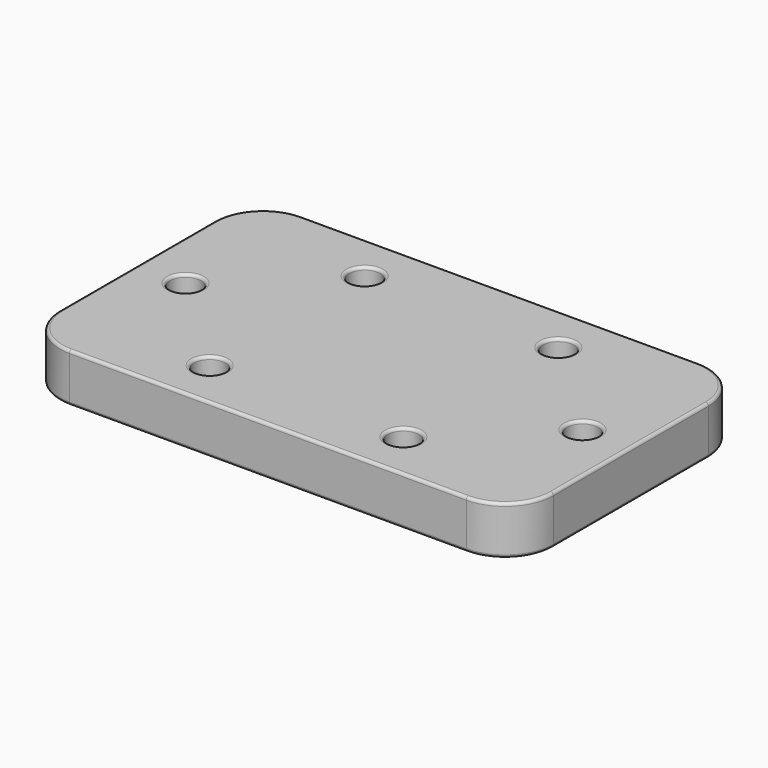
from build123d import *

# Parameters (mm, degrees)
F0_W     = 51
F0_H     = 30
F0_R     = 1.6
F1_DEPTH = 5
F2_R     = 5
F3_R     = 0.3


with BuildPart() as f1:
    # F0 (on Top) → F1 (new body)
    with BuildSketch(Plane.XY):
        with Locations((20.5, 0)):
            Rectangle(F0_W, F0_H)
        with Locations((10.5, -10)):
            Circle(F0_R, mode=Mode.SUBTRACT)
        with Locations((30.5, -10)):
            Circle(F0_R, mode=Mode.SUBTRACT)
        Circle(F0_R, mode=Mode.SUBTRACT)
        with Locations((10.5, 10)):
            Circle(F0_R, mode=Mode.SUBTRACT)
        with Locations((41, 0)):
            Circle(F0_R, mode=Mode.SUBTRACT)
        with Locations((30.5, 10)):
            Circle(F0_R, mode=Mode.SUBTRACT)
    extrude(amount=F1_DEPTH)

    # F2
    f2_edges = [f1.edges().sort_by_distance(p)[0] for p in [
        (-5, -15, 2.5),
        (46, -15, 2.5),
        (46, 15, 2.5),
        (-5, 15, 2.5),
    ]]
    fillet(f2_edges, radius=F2_R)

    # F3
    f3_edges = [f1.edges().sort_by_distance(p)[0] for p in [
        (46, 0, 0),
        (44.535534, -13.535534, 0),
        (44.535534, 13.535534, 0),
        (20.5, -15, 0),
        (20.5, 15, 0),
        (-3.535534, -13.535534, 0),
        (-3.535534, 13.535534, 0),
        (-5, 0, 0),
        (8.9, -10, 0),
        (28.9, -10, 0),
        (-1.6, 0, 0),
        (8.9, 10, 0),
        (39.4, 0, 0),
        (28.9, 10, 0),
        (46, 0, 5),
        (44.535534, -13.535534, 5),
        (44.535534, 13.535534, 5),
        (20.5, -15, 5),
        (20.5, 15, 5),
        (-3.535534, -13.535534, 5),
        (-3.535534, 13.535534, 5),
        (-5, 0, 5),
        (8.9, -10, 5),
        (28.9, -10, 5),
        (-1.6, 0, 5),
        (8.9, 10, 5),
        (39.4, 0, 5),
        (28.9, 10, 5),
    ]]
    fillet(f3_edges, radius=F3_R)


solid = f1.part
